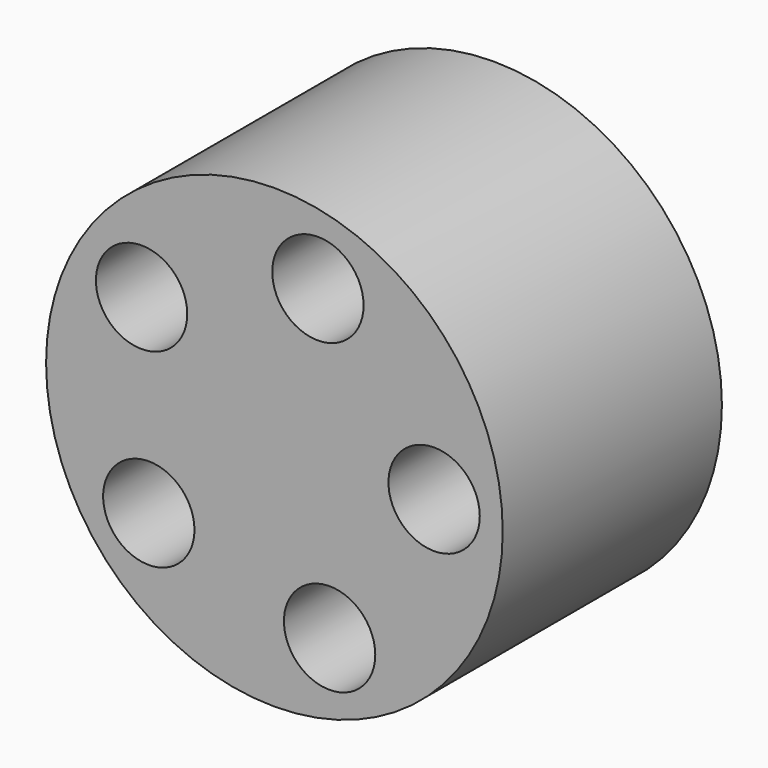
from build123d import *

# Parameters (mm, degrees)
F0_R     = 63.5
F0_R_2   = 12.7
F1_DEPTH = 38.1


with BuildPart() as f1:
    # F0 (on Front) → F1 (new body, symmetric)
    with BuildSketch(Plane.XZ):
        Circle(F0_R)
        with Locations((-34.930637, -27.489145)):
            Circle(F0_R_2, mode=Mode.SUBTRACT)
        with Locations((15.34957, -41.715623)):
            Circle(F0_R_2, mode=Mode.SUBTRACT)
        with Locations((-36.937891, 24.726397)):
            Circle(F0_R_2, mode=Mode.SUBTRACT)
        with Locations((44.417193, 1.707472)):
            Circle(F0_R_2, mode=Mode.SUBTRACT)
        with Locations((12.101765, 42.770899)):
            Circle(F0_R_2, mode=Mode.SUBTRACT)
    extrude(amount=F1_DEPTH, both=True)


solid = f1.part
